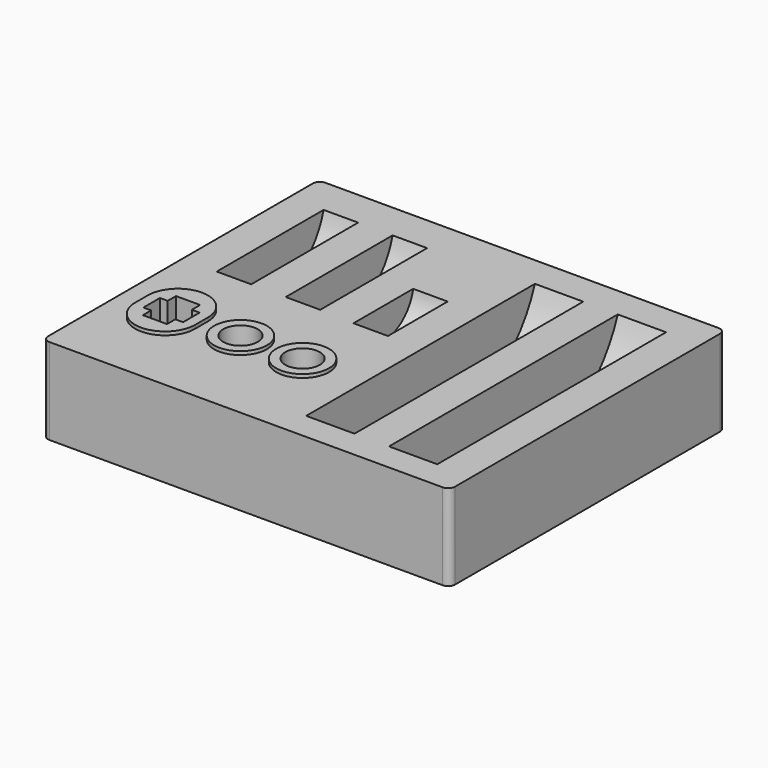
from build123d import *

# Parameters (mm, degrees)
F1_DEPTH  = 25
F2_R      = 7.65
F3_DEPTH  = 1
F5_DEPTH  = 11
F7_W      = 10
F7_H      = 20
F10_W     = 10
F10_H     = 11
F13_START = -10
F13_DEPTH = 14
F14_START = -34
F14_DEPTH = 14
F15_R     = 5
F16_DEPTH = 7


with BuildPart() as f1:
    # F0 (on Top) → F1 (new body)
    with BuildSketch(Plane.XY):
        with BuildLine():
            ThreePointArc((0, 2), (0.5857864376, 0.5857864376), (2, 0))
            Line((2, 0), (116, 0))
            ThreePointArc((116, 0), (117.4142135624, 0.5857864376), (118, 2))
            Line((118, 2), (118, 98))
            ThreePointArc((118, 98), (117.4142135624, 99.4142135624), (116, 100))
            Line((116, 100), (2, 100))
            ThreePointArc((2, 100), (0.5857864376, 99.4142135624), (0, 98))
            Line((0, 98), (0, 2))
        make_face()
    extrude(amount=F1_DEPTH)

    # F2 (on face) → F3 (join)
    with BuildSketch(Plane.XY.offset(25)):
        with Locations((35, 28)):
            Circle(F2_R)
        with BuildLine():
            Line((23.7, 25.7), (23.7, 30.3))
            ThreePointArc((23.7, 30.3), (15, 39), (6.3, 30.3))
            Line((6.3, 30.3), (6.3, 25.7))
            ThreePointArc((6.3, 25.7), (15, 17), (23.7, 25.7))
        make_face()
        with Locations((53, 28)):
            Circle(F2_R)
    extrude(amount=F3_DEPTH)

    # F4 (on face) → F5 (cut)
    with BuildSketch(Plane.XY.offset(26)):
        Polygon((20.75, 25), (20.75, 31), (18.5, 31), (18.5, 34), (11.5, 34), (11.5, 31), (9.25, 31), (9.25, 25), (11.5, 25), (11.5, 22), (18.5, 22), (18.5, 25), align=None)
    extrude(amount=-F5_DEPTH, mode=Mode.SUBTRACT)

    # F7 (on offset) → F8 (revolve, cut)
    with BuildSketch(Plane.XY.offset(30)):
        with Locations((15, 80)):
            Rectangle(F7_W, F7_H)
        with Locations((35, 80)):
            Rectangle(F7_W, F7_H)
    revolve(axis=Axis((25, 70, 30), (1, 0, 0)), mode=Mode.SUBTRACT)

    # F10 (on offset) → F11 (revolve, cut)
    with BuildSketch(Plane.XY.offset(27)):
        with Locations((55, 55.5)):
            Rectangle(F10_W, F10_H)
    revolve(axis=Axis((55, 61, 27), (1, 0, 0)), mode=Mode.SUBTRACT)

    # F12 (on face) → F13 (cut)
    with BuildSketch(Plane.YZ.offset(118).offset(F13_START)):
        with BuildLine():
            Line((42, 1), (57, 1))
            ThreePointArc((57, 1), (92.8019763155, 40.7707415594), (49.5, 72.2100837829))
            ThreePointArc((49.5, 72.2100837829), (6.1980236845, 40.7707415594), (42, 1))
        make_face()
    extrude(amount=-F13_DEPTH, mode=Mode.SUBTRACT)

    # F12 (on face) → F14 (cut)
    with BuildSketch(Plane.YZ.offset(118).offset(F14_START)):
        with BuildLine():
            Line((42, 1), (57, 1))
            ThreePointArc((57, 1), (77.7846096908, 7.6061230866), (90.941125497, 25))
            Line((90.941125497, 25), (8.058874503, 25))
            ThreePointArc((8.058874503, 25), (21.2153903092, 7.6061230866), (42, 1))
        make_face()
    extrude(amount=-F14_DEPTH, mode=Mode.SUBTRACT)

    # F15 (on face) → F16 (cut)
    with BuildSketch(Plane.XY.offset(26)):
        with Locations((35, 28)):
            Circle(F15_R)
        with Locations((53, 28)):
            Circle(F15_R)
    extrude(amount=-F16_DEPTH, mode=Mode.SUBTRACT)


solid = f1.part
